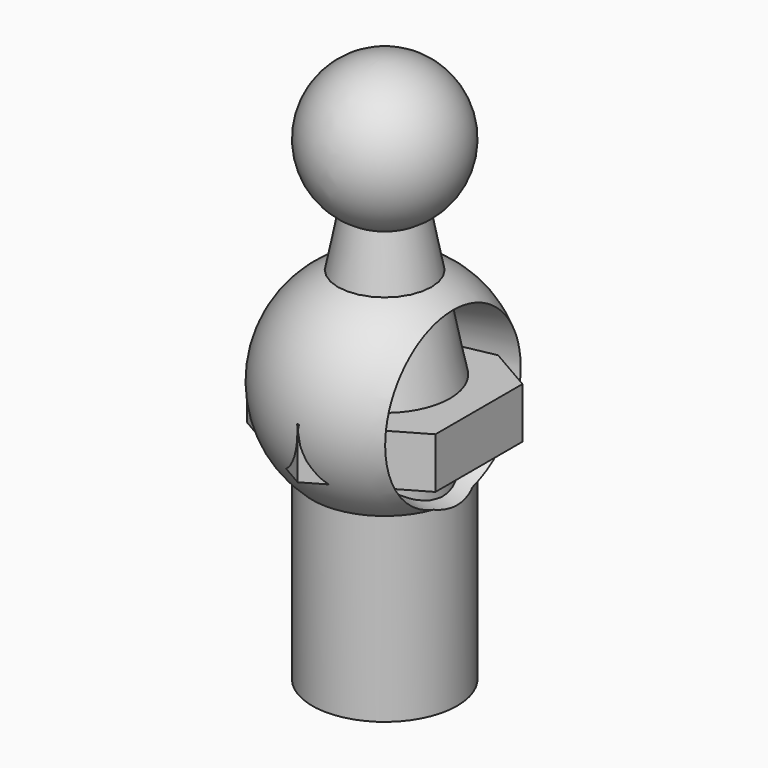
from build123d import *

# Parameters (mm, degrees)
SKETCH_R      = 4
PAD_DEPTH     = 15
PAD001_DEPTH  = 3.5
SKETCH004_R   = 5
SKETCH004_R_2 = 4
PAD002_DEPTH  = 12.5
SKETCH006_R   = 5
SKETCH007_R   = 6.5


with BuildPart() as obj1:
    # Sketch → Pad (new body)
    with BuildSketch(Plane.XY):
        Circle(SKETCH_R)
    extrude(amount=PAD_DEPTH)

    # Sketch001 (on Face3 of Pad) → Pad001 (join)
    with BuildSketch(Plane.XY.offset(15)):
        Polygon((0, -7.505553), (6.5, -3.752777), (6.5, 3.752777), (0, 7.505553), (-6.5, 3.752777), (-6.5, -3.752777), align=None)
    extrude(amount=PAD001_DEPTH)

    # Sketch002 → Revolution (revolve)
    with BuildSketch(Plane.XZ):
        Polygon((0, 18.5), (4.5, 18.5), (2.5, 28.5), (0, 28.5), align=None)
    revolve(axis=Axis((0, 0, 0), (0, 0, 1)))

    # Sketch003 → Revolution001 (revolve)
    with BuildSketch(Plane.YZ):
        with BuildLine():
            ThreePointArc((0, 37.8), (-5, 32.8), (0, 27.8))
            Line((0, 37.8), (0, 27.8))
        make_face()
    revolve(axis=Axis((0, 0, 0), (0, 0, 1)))


with BuildPart() as obj2:
    # Sketch004 → Pad002 (new body)
    with BuildSketch(Plane.XY):
        Circle(SKETCH004_R)
        Circle(SKETCH004_R_2, mode=Mode.SUBTRACT)
    extrude(amount=PAD002_DEPTH)

    # Sketch005 → Revolution002 (revolve)
    with BuildSketch(Plane.YZ):
        with BuildLine():
            ThreePointArc((0, 10.59017), (7.5, 18.09017), (0, 25.59017))
            Line((0, 25.59017), (0, 23.09017))
            ThreePointArc((0, 13.09017), (5, 18.09017), (0, 23.09017))
            Line((0, 13.09017), (0, 10.59017))
        make_face()
    revolve(axis=Axis((0, 0, 0), (0, 0, 1)))

    # Sketch006 (on DatumPlane) → SubtractiveLoft section 0
    with BuildSketch(Plane.YZ.offset(0.5)):
        with Locations((0, 18.1)):
            Circle(SKETCH006_R)
    # Sketch007 (on DatumPlane) → SubtractiveLoft section 1
    with BuildSketch(Plane.YZ.offset(8)):
        with Locations((0, 18.081013)):
            Circle(SKETCH007_R)
    loft(mode=Mode.SUBTRACT)


solid = Compound([obj1.part, obj2.part])
